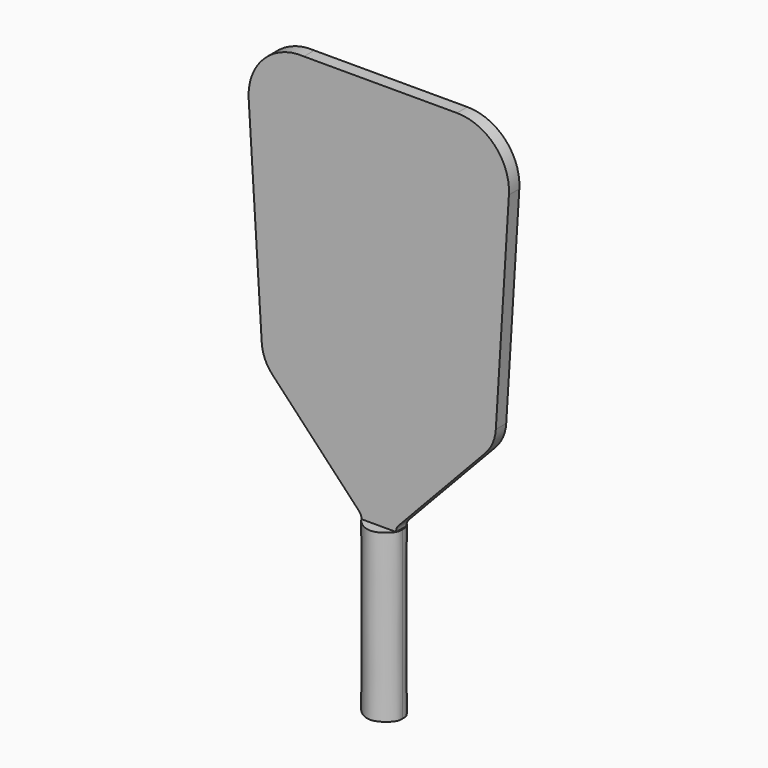
from build123d import *

# Parameters (mm, degrees)
F1_DEPTH = 9.525
F3_DEPTH = 121.92


with BuildPart() as f1:
    # F0 (on Front) → F1 (new body)
    with BuildSketch(Plane.XZ):
        with BuildLine():
            Line((-90.4198863841, -199.8174223726), (-65.0198863841, -199.8174223726))
            Line((-65.0198863841, -199.8174223726), (-65.0198863841, -77.6269874452))
            ThreePointArc((-65.0198863841, -77.6269874452), (-64.5716667425, -75.283594904), (-63.2902836749, -73.2710226983))
            Line((-63.2902836749, -73.2710226983), (0.2219014244, -5.9032763961))
            ThreePointArc((0.2219014244, -5.9032763961), (5.6483998611, 2.3349347628), (7.9501744142, 11.9274757342))
            Line((7.9501744142, 11.9274757342), (17.5301136159, 166.1943775892))
            ThreePointArc((17.5301136159, 166.1943775892), (7.2368619177, 194.6018193712), (-20.5011122464, 206.5825776274))
            Line((-20.5011122464, 206.5825776274), (-132.5816863459, 206.5825776274))
            ThreePointArc((-132.5816863459, 206.5825776274), (-161.8839070163, 195.4965982596), (-172.9698863841, 166.1943775892))
            Line((-172.9698863841, 166.1943775892), (-163.3899471824, 11.9274757342))
            ThreePointArc((-163.3899471824, 11.9274757342), (-161.0881726294, 2.3349347628), (-155.6616741926, -5.9032763961))
            Line((-155.6616741926, -5.9032763961), (-92.1494890934, -73.2710226983))
            ThreePointArc((-92.1494890934, -73.2710226983), (-90.8681060258, -75.283594904), (-90.4198863841, -77.6269874452))
            Line((-90.4198863841, -77.6269874452), (-90.4198863841, -199.8174223726))
        make_face()
    extrude(amount=F1_DEPTH)

    # F2 (on face) → F3 (join)
    with BuildSketch(Plane(origin=(0, 0, -199.8174223726), x_dir=(1, 0, 0), z_dir=(0, 0, -1))):
        with BuildLine():
            add(Edge.make_bspline(
                [(-91.2834923298, 4.7625), (-91.3795906456, 6.2058363779), (-91.6447291423, 10.1880501605), (-77.7198863841, 22.1003565636), (-63.7950436259, 10.1880501605), (-64.0601821227, 6.2058363779), (-64.1562804384, 4.7625)],
                knots=[0, 0, 0, 0, 0.1812228645, 0.5, 0.8187771355, 1, 1, 1, 1], degree=3))
            add(Edge.make_bspline(
                [(-91.2834923298, 4.7625), (-91.3795906456, 3.3191636221), (-91.6447291423, -0.6630501605), (-77.7198863841, -12.5753565636), (-63.7950436259, -0.6630501605), (-64.0601821227, 3.3191636221), (-64.1562804384, 4.7625)],
                knots=[0, 0, 0, 0, 0.1812228645, 0.5, 0.8187771355, 1, 1, 1, 1], degree=3))
        make_face()
    extrude(amount=-F3_DEPTH)


solid = f1.part
